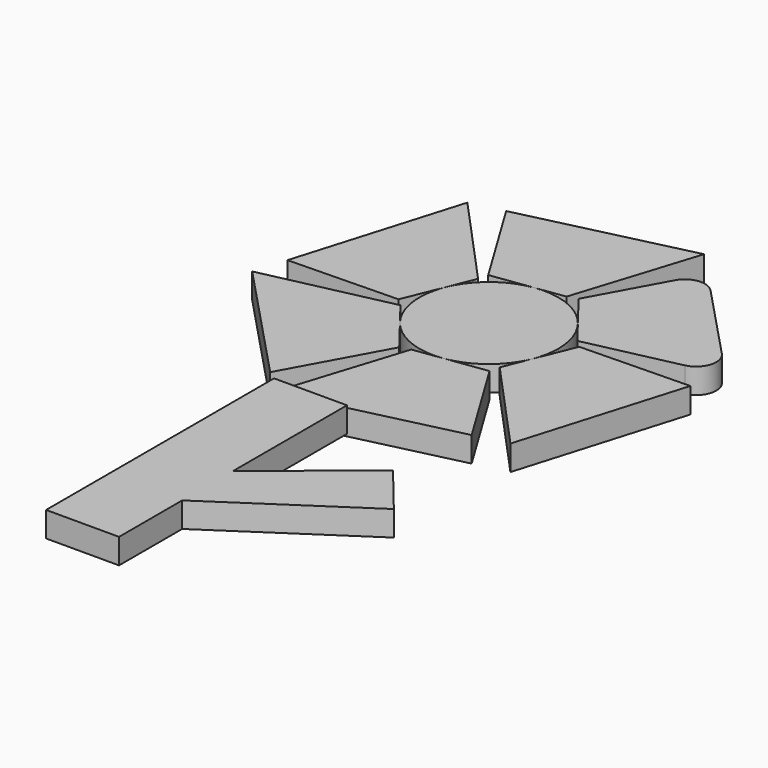
from build123d import *

# Parameters (mm, degrees)
F1_DEPTH = 6.35
F2_R     = 5.08
F3_W     = 18.419568
F3_H     = 71.951434
F4_DEPTH = 6.35
F6_DEPTH = 6.35


with BuildPart() as f1:
    # F0 (on Top) → F1 (new body)
    with BuildSketch(Plane.XY):
        Polygon((-12.905409, 15.925343), (-2.407523, 17.379573), (4.897188, 18.391466), (14.767297, 49.465586), (-27.222635, 39.478553), align=None)
        Polygon((-20.244456, -3.213741), (-16.254913, 6.60481), (-13.478883, 13.436822), (-35.454806, 37.521647), (-47.800747, -3.836217), align=None)
        Polygon((7.339047, 19.139083), (13.84739, 10.774763), (18.376071, 4.954644), (50.222103, 11.943939), (20.578112, 43.31477), align=None)
        with BuildLine():
            ThreePointArc((16.254913, -6.60481), (17.219856, -3.364863), (17.545533, 0))
            ThreePointArc((17.545533, 0), (16.595264, 5.695871), (13.84739, 10.774763))
            ThreePointArc((13.84739, 10.774763), (6.60481, 16.254913), (-2.407523, 17.379573))
            ThreePointArc((-2.407523, 17.379573), (-10.774763, 13.84739), (-16.254913, 6.60481))
            ThreePointArc((-16.254913, 6.60481), (-17.379573, -2.407523), (-13.84739, -10.774763))
            ThreePointArc((-13.84739, -10.774763), (-6.60481, -16.254914), (2.407524, -17.379573))
            ThreePointArc((2.407524, -17.379573), (10.774763, -13.84739), (16.254913, -6.60481))
        make_face()
        Polygon((20.244456, 3.213741), (16.254913, -6.60481), (13.478883, -13.436822), (35.454806, -37.521647), (47.800747, 3.836217), align=None)
        Polygon((12.905409, -15.925343), (2.407524, -17.379573), (-4.897188, -18.391466), (-14.767297, -49.465586), (27.222635, -39.478553), align=None)
        Polygon((-7.339047, -19.139083), (-13.84739, -10.774763), (-18.376071, -4.954644), (-50.222103, -11.943939), (-20.578112, -43.31477), align=None)
    extrude(amount=F1_DEPTH)

    # F2
    f2_edges = [f1.edges().sort_by_distance(p)[0] for p in [
        (50.222103, 11.943939, 3.175),
        (20.578112, 43.31477, 3.175),
    ]]
    fillet(f2_edges, radius=F2_R)


with BuildPart() as f4:
    # F3 (on face) → F4 (new body)
    with BuildSketch(Plane.XY.offset(6.35)):
        with Locations((-1.505811, -90.413667)):
            Rectangle(F3_W, F3_H)
    extrude(amount=F4_DEPTH)

    # F5 (on face) → F6 (join)
    with BuildSketch(Plane.XY.offset(12.7)):
        Polygon((32.14987, -70.454188), (7.703973, -90.413667), (7.703973, -106.452689), (42.60036, -83.2537), align=None)
    extrude(amount=-F6_DEPTH)


solid = Compound([f1.part, f4.part])
